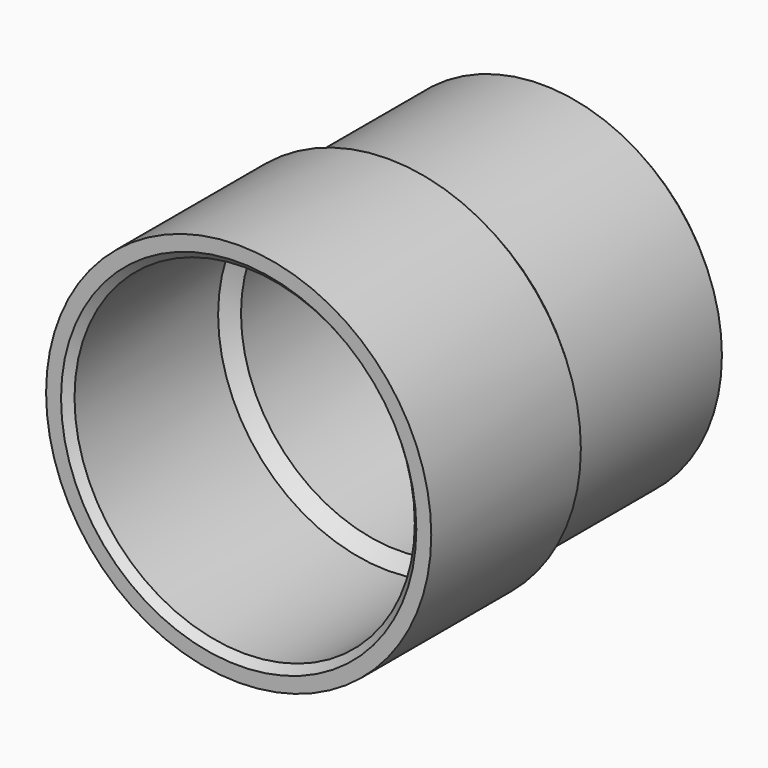
from build123d import *

# Parameters (mm, degrees)
CHAMFER_SIZE = 1


with BuildPart() as part:
    # Sketch → Revolution (revolve)
    with BuildSketch(Plane.XY):
        Polygon((21.05, 51.7), (24.05, 51.7), (24.05, 26.7), (25.75, 25), (25.75, 0), (22.75, 0), (22.75, 25), (21.05, 26.7), align=None)
    revolve(axis=Axis((0, 0, 0), (0, 1, 0)))

    # Chamfer
    chamfer_edges = [part.edges().sort_by_distance(p)[0] for p in [
        (-24.05, 51.7, 0),
        (-22.75, 0, 0),
    ]]
    chamfer(chamfer_edges, length=CHAMFER_SIZE)


solid = part.part
